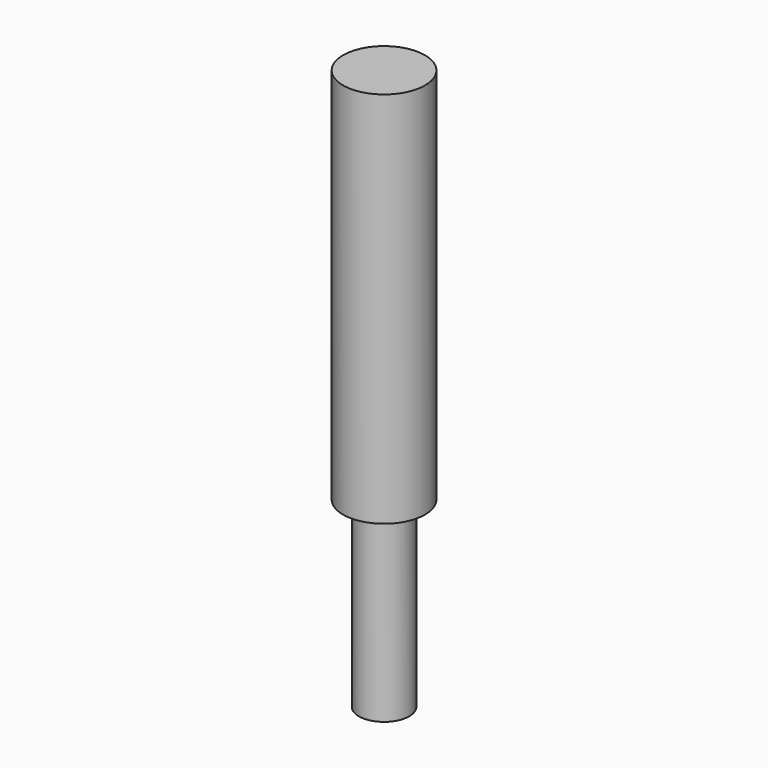
from build123d import *

# Parameters (mm, degrees)
F0_R     = 13
F0_R_2   = 8
F1_DEPTH = 178
F2_DEPTH = 58


with BuildPart() as f1:
    # F0 (on Top) → F1 (new body)
    with BuildSketch(Plane.XY):
        Circle(F0_R)
        Circle(F0_R_2, mode=Mode.SUBTRACT)
        Circle(F0_R)
        Circle(F0_R_2, mode=Mode.SUBTRACT)
        Circle(F0_R_2)
    extrude(amount=F1_DEPTH)

    # F0 (on Top) → F2 (cut)
    with BuildSketch(Plane.XY):
        Circle(F0_R)
        Circle(F0_R_2, mode=Mode.SUBTRACT)
    extrude(amount=F2_DEPTH, mode=Mode.SUBTRACT)


solid = f1.part
